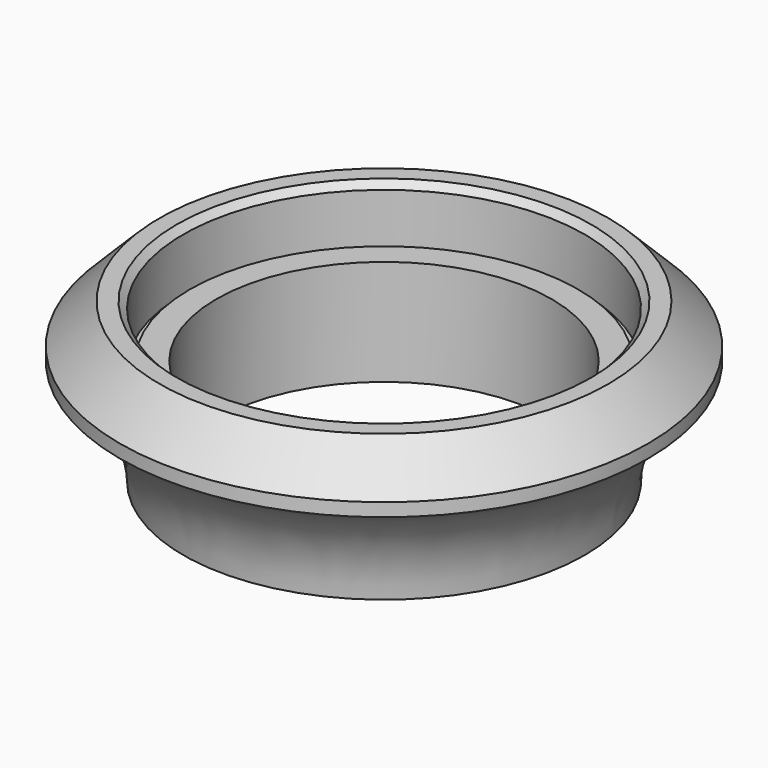
from build123d import *

# Parameters (mm, degrees)
F2_SIZE = 0.5


with BuildPart() as f1:
    # F0 (on Front) → F1 (revolve)
    with BuildSketch(Plane.XZ):
        with BuildLine():
            Line((12.7, 8), (12.7, 0))
            Line((12.7, 0), (15.2, 0))
            ThreePointArc((15.2, 0), (16.492064, 4.664762), (20, 8))
            Line((20, 8), (20, 9))
            Line((20, 9), (17, 12))
            Line((17, 12), (15.2, 12))
            Line((15.2, 12), (15.2, 7.5))
            Line((15.2, 7.5), (14.7, 7.5))
            Line((14.7, 7.5), (14.7, 8))
            Line((14.7, 8), (12.7, 8))
        make_face()
    revolve(axis=Axis((0, 0, 6), (0, 0, 1)))

    # F2
    f2_edges = [f1.edges().sort_by_distance(p)[0] for p in [
        (-15.2, 0, 12),
    ]]
    chamfer(f2_edges, length=F2_SIZE)


solid = f1.part
